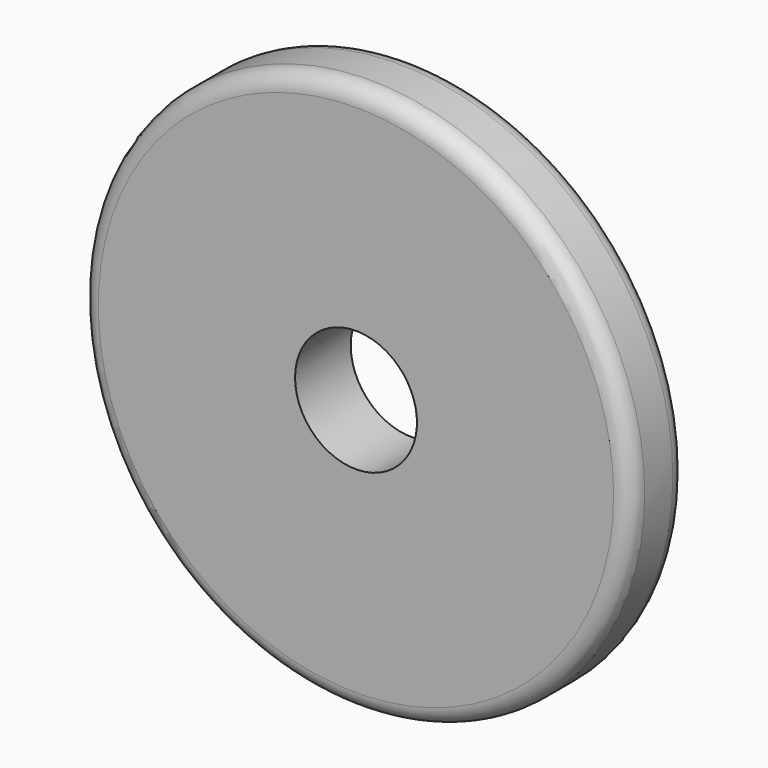
from build123d import *

# Parameters (mm, degrees)
F0_R     = 37.592
F1_DEPTH = 4.7625
F3_D     = 16.66748
F4_R     = 2.3622


with BuildPart() as f1:
    # F0 (on Front) → F1 (new body, symmetric)
    with BuildSketch(Plane.XZ):
        Circle(F0_R)
    extrude(amount=F1_DEPTH, both=True)

    # F3 (through all)
    with Locations(Plane.XZ.offset(4.7625)):
        with Locations((0, 0)):
            Hole(F3_D / 2)

    # F4
    f4_edges = [f1.edges().sort_by_distance(p)[0] for p in [
        (-37.592, -4.7625, 0),
        (-37.592, 4.7625, 0),
    ]]
    fillet(f4_edges, radius=F4_R)


solid = f1.part
